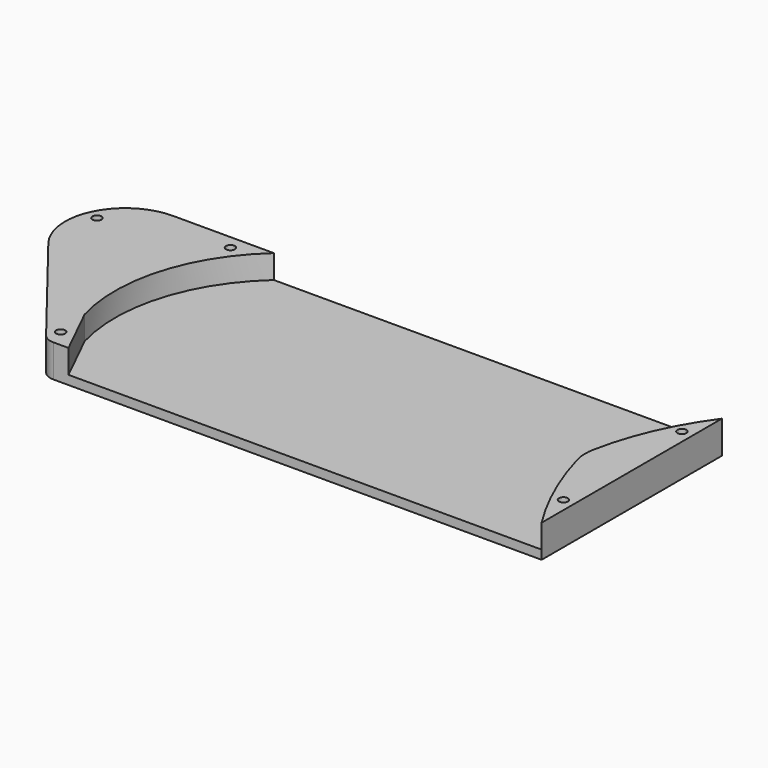
from build123d import *

# Parameters (mm, degrees)
F2_DEPTH  = 3
F3_DEPTH  = 7.9
F4_DEPTH  = 7.9
F5_DEPTH  = 3
F6_R      = 5
F6_2_R    = 5
F9_D      = 3
F10_DEPTH = 4
F11_DEPTH = 4


with BuildPart() as f2:
    # F0 (on Top) → F2 (new body)
    with BuildSketch(Plane.XY):
        with BuildLine():
            ThreePointArc((68.6448413014, 3.4252903424), (74.3230858808, 21.4851908555), (83.8, 37.8739237785))
            Line((83.8, 37.8739237785), (-65.6162592679, 37.8739237785))
            ThreePointArc((-65.6162592679, 37.8739237785), (-82.3199649398, 11.4193737584), (-82.519158721, -19.8666825891))
            Line((-82.519158721, -19.8666825891), (-73.9695476283, -37.2867286205))
            Line((-73.9695476283, -37.2867286205), (83.8, -37.2867286205))
            ThreePointArc((83.8, -37.2867286205), (75.2631412951, -21.4263167299), (69.0877699379, -4.5060504646))
            ThreePointArc((69.0877699379, -4.5060504646), (68.3487291916, -0.5692843065), (68.6448413014, 3.4252903424))
        make_face()
    extrude(amount=-F2_DEPTH)


with BuildPart() as f3:
    # F0 (on Top) → F3 (new body)
    with BuildSketch(Plane.XY):
        with BuildLine():
            ThreePointArc((-82.519158721, -19.8666825891), (-82.3199649398, 11.4193737584), (-65.6162592679, 37.8739237785))
            Line((-65.6162592679, 37.8739237785), (-99.2088739193, 37.8739237785))
            ThreePointArc((-99.2088739193, 37.8739237785), (-117.1879721114, 26.6373104948), (-114.9666717313, 5.5523567478))
            Line((-114.9666717313, 5.5523567478), (-81.4747432756, -37.2867286205))
            Line((-81.4747432756, -37.2867286205), (-73.9695476283, -37.2867286205))
            Line((-73.9695476283, -37.2867286205), (-82.519158721, -19.8666825891))
        make_face()
    extrude(amount=F3_DEPTH)


with BuildPart() as f4:
    # F0 (on Top) → F4 (new body)
    with BuildSketch(Plane.XY):
        with BuildLine():
            Line((83.8, -37.2867286205), (83.8, 37.8739237785))
            ThreePointArc((83.8, 37.8739237785), (74.3230858808, 21.4851908555), (68.6448413014, 3.4252903424))
            ThreePointArc((68.6448413014, 3.4252903424), (68.3487291916, -0.5692843065), (69.0877699379, -4.5060504646))
            ThreePointArc((69.0877699379, -4.5060504646), (75.2631412951, -21.4263167299), (83.8, -37.2867286205))
        make_face()
    extrude(amount=F4_DEPTH)


with BuildPart() as f5:
    # F5 (new): a face of the model
    f5_faces = [f3.part.faces().sort_by_distance(p)[0] for p in [
        (-94.9777366474, 10.3847598955, 0),
    ]]
    extrude(f5_faces, amount=F5_DEPTH)

    # F6#2
    f6_2_edges = [f5.edges().sort_by_distance(p)[0] for p in [
        (-81.474743, -37.286729, -1.5),
    ]]
    fillet(f6_2_edges, radius=F6_2_R)


with BuildPart() as f5b:
    # F5#2 (new): a face of the model
    f5_2_faces = [f4.part.faces().sort_by_distance(p)[0] for p in [
        (77.989714527, 0.7740894227, 0),
    ]]
    extrude(f5_2_faces, amount=F5_DEPTH)


with BuildPart() as f3_1:
    add(f3.part)

    # F6
    f6_edges = [f3_1.edges().sort_by_distance(p)[0] for p in [
        (-81.474743, -37.286729, 3.95),
    ]]
    fillet(f6_edges, radius=F6_R)


with BuildPart() as f2_1:
    add(f2.part)

    # F7: union F3, F4, F5, F5b
    add(f3_1.part)
    add(f4.part)
    add(f5.part)
    add(f5b.part)

    # F9 (through all)
    with Locations(Plane(origin=(0, 0, -3), x_dir=(1, 0, 0), z_dir=(0, 0, -1))):
        with Locations((-81.1894536018, 31.5095931292), (-113.9387488365, -24.5540793985), (-76.3550326228, -33.2092493773), (80.1921039701, 23.663148284), (80.1921039701, -25.700064376)):
            Hole(F9_D / 2)

    # F8 (on face) → F10 (cut)
    with BuildSketch(Plane(origin=(0, 0, -3), x_dir=(1, 0, 0), z_dir=(0, 0, -1))):
        Polygon((-74.5737203647, -36.1802637897), (-72.8914025376, -33.1520949158), (-74.6727147957, -30.1810805034), (-78.136344881, -30.2382349648), (-79.8186627081, -33.2664038387), (-78.0373504499, -36.2374182511), align=None)
        Polygon((83.1921039701, 21.9310974764), (83.1921039701, 25.3951990915), (80.1921039701, 27.1272498991), (77.1921039701, 25.3951990915), (77.1921039701, 21.9310974764), (80.1921039701, 20.1990466688), align=None)
        Polygon((83.1921039701, -27.4321151836), (83.1921039701, -23.9680135684), (80.1921039701, -22.2359627609), (77.1921039701, -23.9680135684), (77.1921039701, -27.4321151836), (80.1921039701, -29.1641659911), align=None)
        Polygon((-79.8767595984, 28.3038429122), (-77.7568454741, 31.043544375), (-79.0695394775, 34.249294592), (-82.5021476052, 34.7153433461), (-84.6220617296, 31.9756418833), (-83.3093677262, 28.7698916664), align=None)
        Polygon((-110.4805015339, -24.7553890954), (-112.0352858737, -21.6598042304), (-115.4935331763, -21.4584945334), (-117.3969961391, -24.3527697016), (-115.8422117994, -27.4483545667), (-112.3839644968, -27.6496642636), align=None)
    extrude(amount=-F10_DEPTH, mode=Mode.SUBTRACT)

    # F8 (on face) → F11 (cut)
    with BuildSketch(Plane(origin=(0, 0, -3), x_dir=(1, 0, 0), z_dir=(0, 0, -1))):
        Polygon((-74.5737203647, -36.1802637897), (-72.8914025376, -33.1520949158), (-74.6727147957, -30.1810805034), (-78.136344881, -30.2382349648), (-79.8186627081, -33.2664038387), (-78.0373504499, -36.2374182511), align=None)
        Polygon((83.1921039701, 21.9310974764), (83.1921039701, 25.3951990915), (80.1921039701, 27.1272498991), (77.1921039701, 25.3951990915), (77.1921039701, 21.9310974764), (80.1921039701, 20.1990466688), align=None)
        Polygon((83.1921039701, -27.4321151836), (83.1921039701, -23.9680135684), (80.1921039701, -22.2359627609), (77.1921039701, -23.9680135684), (77.1921039701, -27.4321151836), (80.1921039701, -29.1641659911), align=None)
        Polygon((-79.8767595984, 28.3038429122), (-77.7568454741, 31.043544375), (-79.0695394775, 34.249294592), (-82.5021476052, 34.7153433461), (-84.6220617296, 31.9756418833), (-83.3093677262, 28.7698916664), align=None)
        Polygon((-110.4805015339, -24.7553890954), (-112.0352858737, -21.6598042304), (-115.4935331763, -21.4584945334), (-117.3969961391, -24.3527697016), (-115.8422117994, -27.4483545667), (-112.3839644968, -27.6496642636), align=None)
    extrude(amount=-F11_DEPTH, mode=Mode.SUBTRACT)


solid = f2_1.part
